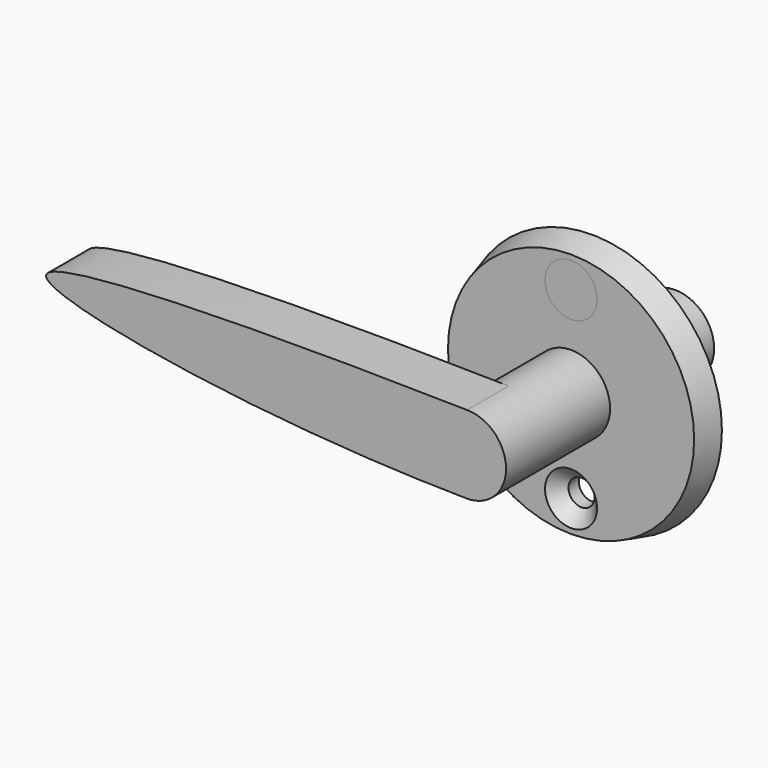
from build123d import *

# Parameters (mm, degrees)
F0_R           = 25
F1_DEPTH       = 5
F1_TAPER       = 15
F3_D           = 5
F3_DEPTH       = 12
F3_CSINK_D     = 10
F3_CSINK_ANGLE = 90
F3_TIP         = 1.5021515476
F4_R           = 7.5
F5_DEPTH       = 25
F8_DEPTH       = 10
F9_R           = 5
F10_DEPTH      = 5


with BuildPart() as f1:
    # F0 (on Front) → F1 (new body)
    with BuildSketch(Plane.XZ):
        Circle(F0_R)
    extrude(amount=F1_DEPTH, taper=F1_TAPER)

    # F3
    with Locations(Plane.XZ.offset(5)):
        with Locations((0, 17.6602540378), (0, -17.6602540378)):
            CounterSinkHole(F3_D / 2, F3_CSINK_D / 2, depth=F3_DEPTH, counter_sink_angle=F3_CSINK_ANGLE)
            with Locations((0, 0, -(F3_DEPTH + F3_TIP / 2))):  # 118° drill point
                Cone(0, F3_D / 2, F3_TIP, mode=Mode.SUBTRACT)


with BuildPart() as f5:
    # F4 (on face) → F5 (new body, symmetric)
    with BuildSketch(Plane.XZ.offset(5)):
        Circle(F4_R)
    extrude(amount=F5_DEPTH, both=True)


with BuildPart() as f1_1:
    add(f1.part)

    # F6: cut F5
    add(f5.part, mode=Mode.SUBTRACT)


with BuildPart() as f5_1:
    add(f5.part)

    # F7 (on face) → F8 (join)
    with BuildSketch(Plane.XZ.offset(30)):
        with BuildLine():
            ThreePointArc((-0.1448555928, -7.4986009933), (-7.4996502402, 0.0724311742), (0, 7.5))
            add(Edge.make_bspline(
                [(0, 7.5), (-40.8477857709, 8.3165615797), (-120.8472087584, 7.1810955966), (-41.1422293927, -7.0946895923), (-0.1448555928, -7.4986009933)],
                knots=[0, 0, 0, 0, 0.4988928977, 0.9994105268, 0.9994105268, 0.9994105268, 0.9994105268], degree=3))
        make_face()
    extrude(amount=-F8_DEPTH)


with BuildPart() as f10:
    # F9 (on face) → F10 (new body, through all)
    with BuildSketch(Plane.XZ.offset(5)):
        with Locations((0, 17.6602540378)):
            Circle(F9_R)
    extrude(amount=-F10_DEPTH)

    # F11: cut F1
    add(f1_1.part, mode=Mode.SUBTRACT)


solid = Compound([f1_1.part, f5_1.part, f10.part])
